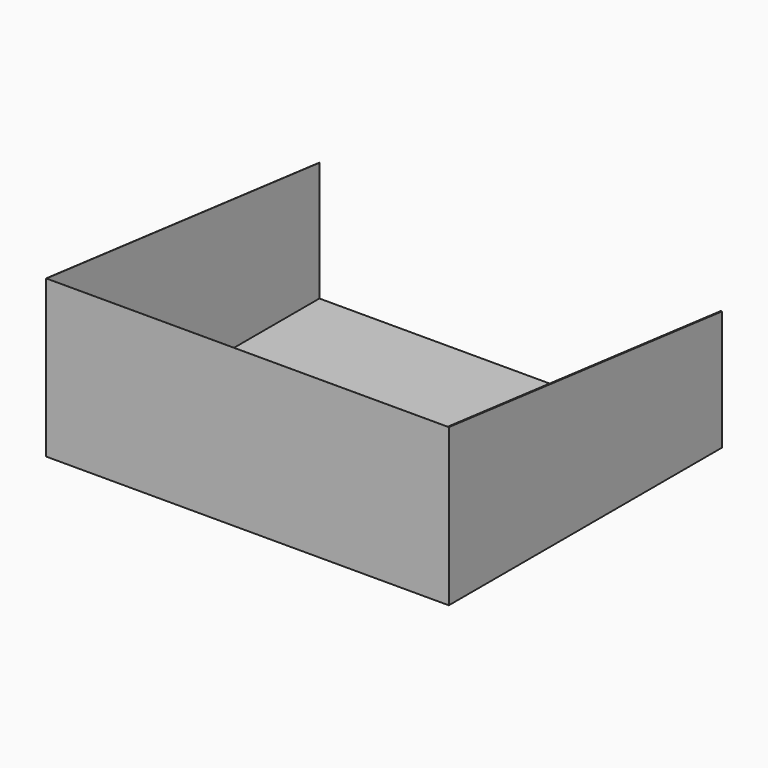
from build123d import *

# Parameters (mm, degrees)
F7_DEPTH  = 25
F0_W      = 8700
F0_H      = 7400
F8_DEPTH  = 10
F2_W      = 8700
F2_H      = 3400
F9_DEPTH  = 1
F12_DEPTH = 5
F13_W     = 1100
F13_H     = 2029.1695594788
F14_DEPTH = 25


with BuildPart() as f7:
    # F6 (on line) → F7 (new body)
    with BuildSketch(Plane.YZ.offset(4350)):
        Polygon((-3700, 3400), (-3700, 0), (3700, 0), (3700, 2600), align=None)
    extrude(amount=F7_DEPTH)

    # F0 (on Top) → F8 (join)
    with BuildSketch(Plane.XY):
        Rectangle(F0_W, F0_H)
    extrude(amount=F8_DEPTH)

    # F2 (on line) → F9 (join)
    with BuildSketch(Plane.XZ.offset(3700)):
        with Locations((0, 1700)):
            Rectangle(F2_W, F2_H)
    extrude(amount=-F9_DEPTH)

    # F11 (on face) → F12 (join)
    with BuildSketch(Plane.YZ.offset(-4350)):
        Polygon((-3700, 3400), (-3700, 0), (3700, 0), (3700, 2600), align=None)
    extrude(amount=-F12_DEPTH)

    # F13 (on face) → F14 (join)
    with BuildSketch(Plane.XZ.offset(3700)):
        with Locations((0, 1014.5847797394)):
            Rectangle(F13_W, F13_H)
    extrude(amount=-F14_DEPTH)


solid = f7.part
